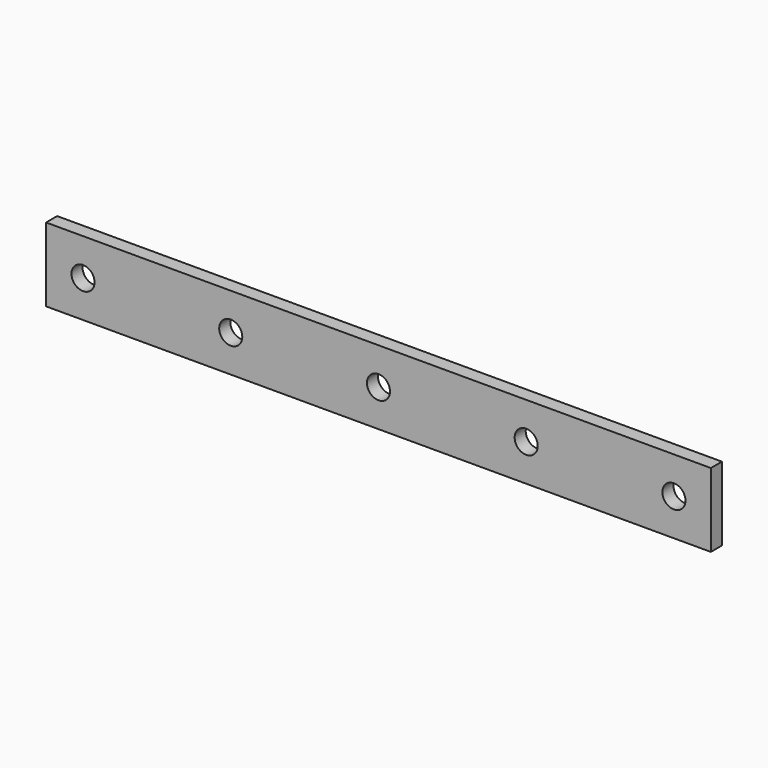
from build123d import *

# Parameters (mm, degrees)
F0_W     = 144
F0_H     = 16
F0_R     = 2.5
F1_DEPTH = 3


with BuildPart() as f1:
    # F0 (on Front) → F1 (new body)
    with BuildSketch(Plane.XZ):
        Rectangle(F0_W, F0_H)
        with Locations((-64, 0)):
            Circle(F0_R, mode=Mode.SUBTRACT)
        with Locations((-32, 0)):
            Circle(F0_R, mode=Mode.SUBTRACT)
        Circle(F0_R, mode=Mode.SUBTRACT)
        with Locations((32, 0)):
            Circle(F0_R, mode=Mode.SUBTRACT)
        with Locations((64, 0)):
            Circle(F0_R, mode=Mode.SUBTRACT)
    extrude(amount=F1_DEPTH)


solid = f1.part
